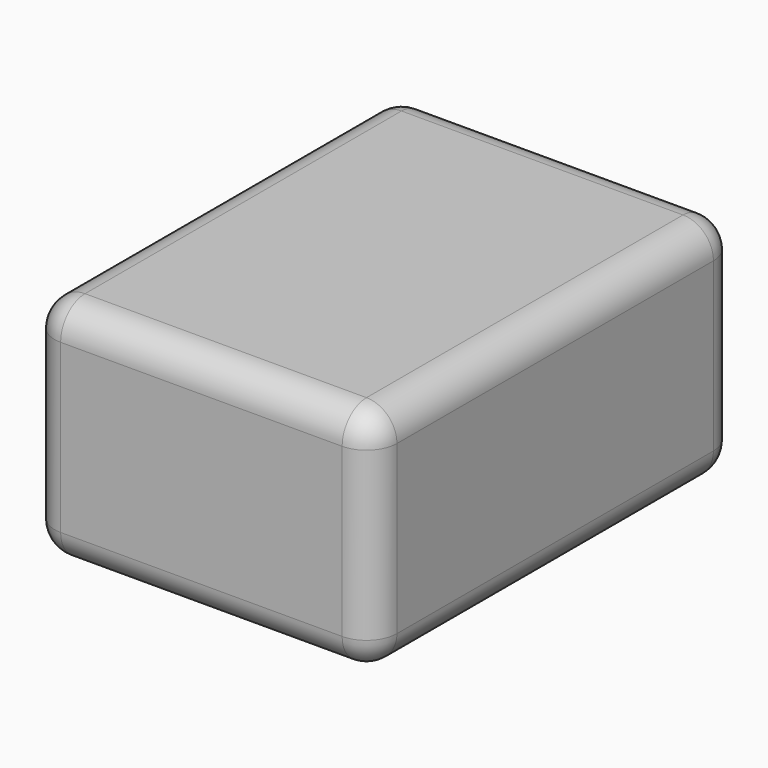
from build123d import *

# Parameters (mm, degrees)
F0_W          = 114.3
F0_H          = 76.2
F1_DEPTH      = 76.2
F1_DEPTH_BACK = 76.2
F2_R          = 10.16


with BuildPart() as f1:
    # F0 (on Front) → F1 (new body, two sides)
    with BuildSketch(Plane.XZ) as f1_sk:
        Rectangle(F0_W, F0_H)
    extrude(amount=F1_DEPTH)
    extrude(f1_sk.sketch, amount=-F1_DEPTH_BACK)

    # F2
    f2_edges = [f1.edges().sort_by_distance(p)[0] for p in [
        (0, -76.2, 38.1),
        (57.15, 0, 38.1),
        (0, 76.2, 38.1),
        (-57.15, 0, 38.1),
        (57.15, -76.2, 0),
        (57.15, 76.2, 0),
        (57.15, 0, -38.1),
        (-57.15, -76.2, 0),
        (0, 76.2, -38.1),
        (-57.15, 76.2, 0),
        (-57.15, 0, -38.1),
        (0, -76.2, -38.1),
    ]]
    fillet(f2_edges, radius=F2_R)


solid = f1.part
